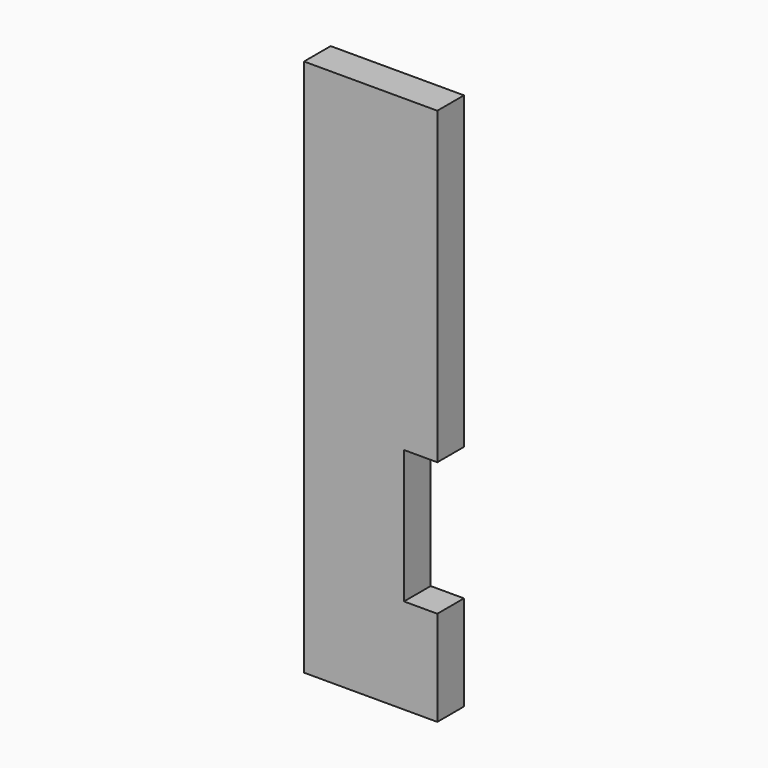
from build123d import *

# Parameters (mm, degrees)
SKETCH_W     = 140
SKETCH_H     = 35
PAD_DEPTH    = 565
SKETCH001_W  = 35
SKETCH001_H  = 140
POCKET_DEPTH = 35.001


with BuildPart() as part:
    # Sketch → Pad (new body)
    with BuildSketch(Plane.XY):
        with Locations((-70, 17.5)):
            Rectangle(SKETCH_W, SKETCH_H)
    extrude(amount=PAD_DEPTH)

    # Sketch001 (on Face1 of Pad) → Pocket (cut, through all)
    with BuildSketch(Plane.XZ):
        with Locations((-17.5, 170)):
            Rectangle(SKETCH001_W, SKETCH001_H)
    extrude(amount=-POCKET_DEPTH, mode=Mode.SUBTRACT)


solid = part.part
